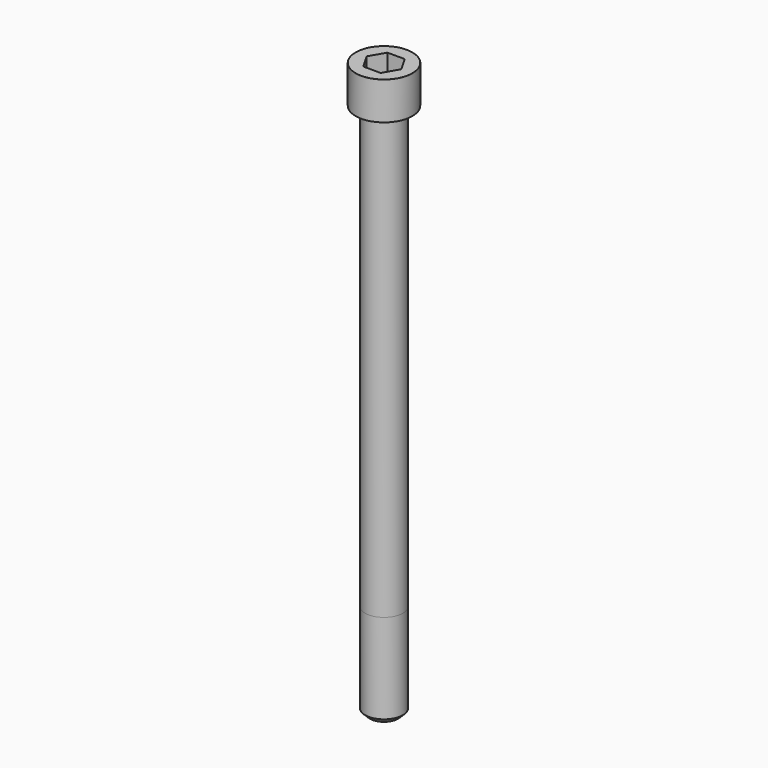
from build123d import *

# Parameters (mm, degrees)
POCKET_DEPTH = 19.15


with BuildPart() as part:
    # Sketch → Revolve (revolve)
    with BuildSketch(Plane.YZ):
        with BuildLine():
            Line((11.999, 0), (18, 0))
            Line((18, 0), (18, 23.97229))
            ThreePointArc((18, 23.97229), (17.991884, 23.991884), (17.97229, 24))
            Line((17.97229, 24), (0, 24))
            Line((0, -340), (0, 24))
            Line((9, -340), (0, -340))
            Line((12, -337), (9, -340))
            Line((12, -280), (12, -337))
            Line((11.999, 0), (12, -280))
        make_face()
    revolve(axis=Axis((0, 0, 0), (0, 0, 1)))

    # Sketch001 → Pocket (cut)
    with BuildSketch(Plane.XY.offset(24)):
        Polygon((11.056258, 0), (5.528129, 9.575), (-5.528129, 9.575), (-11.056258, 0), (-5.528129, -9.575), (5.528129, -9.575), align=None)
    extrude(amount=-POCKET_DEPTH, mode=Mode.SUBTRACT)


solid = part.part
